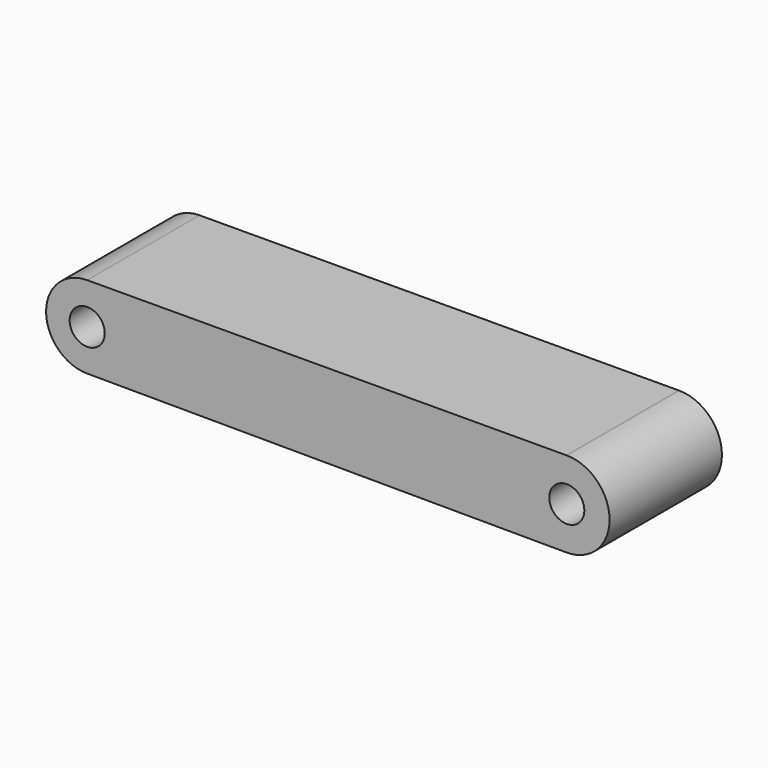
from build123d import *

# Parameters (mm, degrees)
F0_R     = 1.5875
F1_DEPTH = 12.7


with BuildPart() as f1:
    # F0 (on Front) → F1 (new body)
    with BuildSketch(Plane.XZ):
        with BuildLine():
            Line((-12.238163, 28.612093), (-55.574305, 28.462326))
            ThreePointArc((-55.574305, 28.462326), (-59.292865, 24.743766), (-55.574305, 21.025206))
            Line((-55.574305, 21.025206), (-12.224796, 20.875369))
            ThreePointArc((-12.224796, 20.875369), (-8.343011, 24.73708), (-12.211425, 28.612186))
            ThreePointArc((-12.211425, 28.612186), (-12.224794, 28.612162), (-12.238163, 28.612093))
        make_face()
        with Locations((-55.574305, 24.743766)):
            Circle(F0_R, mode=Mode.SUBTRACT)
        with Locations((-12.211425, 24.743766)):
            Circle(F0_R, mode=Mode.SUBTRACT)
    extrude(amount=F1_DEPTH)


solid = f1.part
